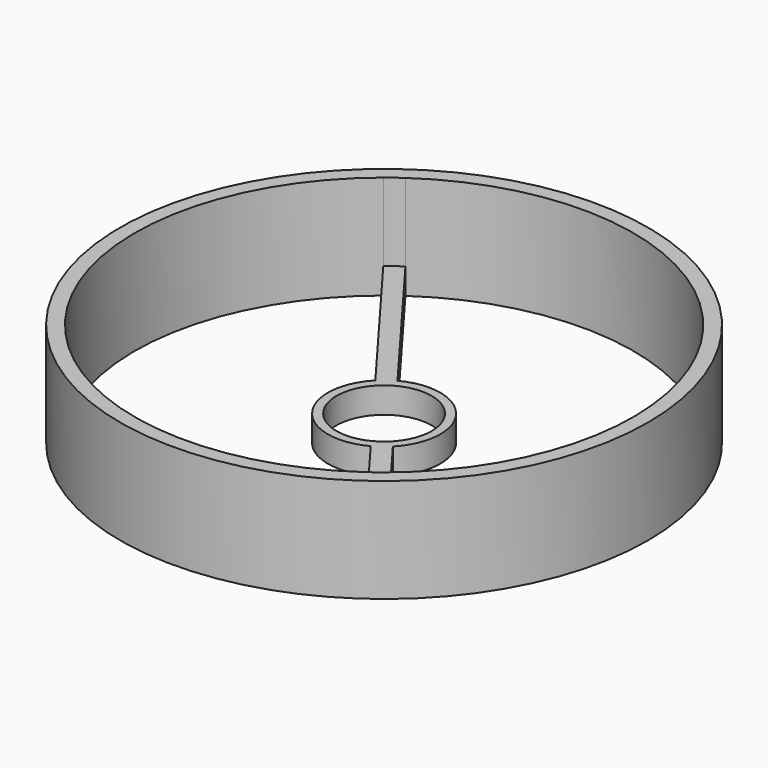
from build123d import *

# Parameters (mm, degrees)
F0_R     = 30.5
F1_DEPTH = 12
F0_R_2   = 5.5
F2_DEPTH = 3


with BuildPart() as f1:
    # F0 (on Top) → F1 (new body)
    with BuildSketch(Plane.XY):
        with Locations((-0.117735, 0.149164)):
            Circle(F0_R)
        with BuildLine():
            ThreePointArc((-18.165188, 22.593082), (-17.375002, 23.206196), (-16.564005, 23.791503))
            ThreePointArc((-16.564005, 23.791503), (22.939297, 17.406431), (17.929717, -22.294755))
            ThreePointArc((17.929717, -22.294755), (17.139532, -22.907869), (16.328534, -23.493176))
            ThreePointArc((16.328534, -23.493176), (-23.174768, -17.108103), (-18.165188, 22.593082))
        make_face(mode=Mode.SUBTRACT)
    extrude(amount=F1_DEPTH)

    # F0 (on Top) → F2 (join)
    with BuildSketch(Plane.XY):
        with BuildLine():
            Line((-3.165644, 5.890266), (-16.564005, 23.791503))
            ThreePointArc((-16.564005, 23.791503), (-17.375002, 23.206196), (-18.165188, 22.593082))
            Line((-18.165188, 22.593082), (-4.766827, 4.691844))
            ThreePointArc((-4.766827, 4.691844), (-5.321579, -3.745706), (2.930173, -5.591938))
            Line((2.930173, -5.591938), (16.328534, -23.493176))
            ThreePointArc((16.328534, -23.493176), (17.139532, -22.907869), (17.929717, -22.294755))
            Line((17.929717, -22.294755), (4.531356, -4.393517))
            ThreePointArc((4.531356, -4.393517), (5.086109, 4.044033), (-3.165644, 5.890266))
        make_face()
        with Locations((-0.117735, 0.149164)):
            Circle(F0_R_2, mode=Mode.SUBTRACT)
    extrude(amount=F2_DEPTH)


solid = f1.part
